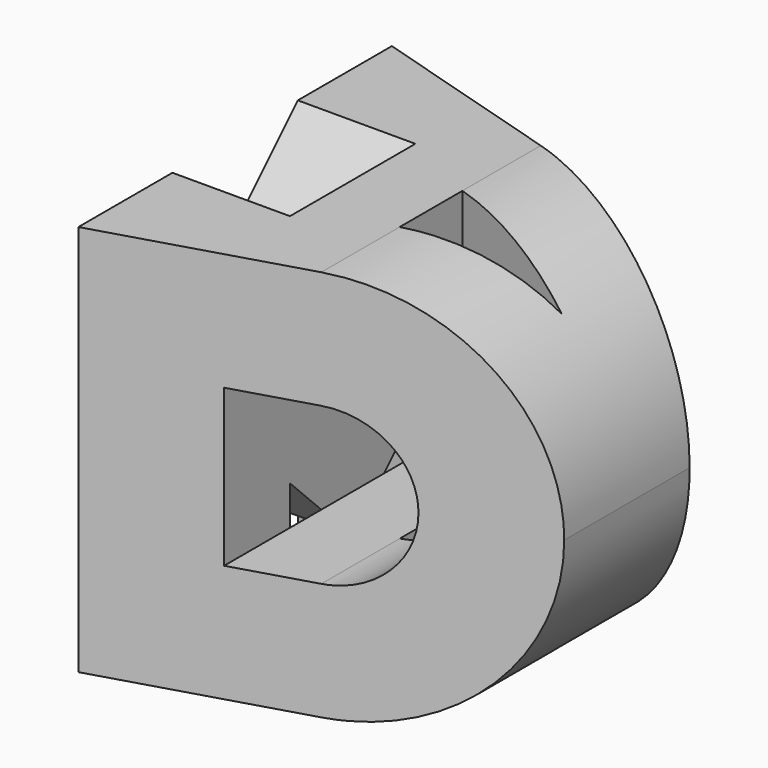
from build123d import *

# Parameters (mm, degrees)
F1_DEPTH = 50
F3_DEPTH = 15
F6_DEPTH = 50


with BuildPart() as f1:
    # F0 (on Front) → F1 (new body)
    with BuildSketch(Plane.XZ):
        with BuildLine():
            Line((25, 50), (0, 50))
            Line((0, 50), (0, 0))
            Line((0, 0), (25, 0))
            ThreePointArc((25, 0), (42.6776695297, 7.3223304703), (50, 25))
            ThreePointArc((50, 25), (42.6776695297, 42.6776695297), (25, 50))
        make_face()
        with BuildLine():
            Line((25, 15), (15, 15))
            Line((15, 15), (15, 35))
            Line((15, 35), (25, 35))
            ThreePointArc((25, 35), (32.0710678119, 32.0710678119), (35, 25))
            ThreePointArc((35, 25), (32.0710678119, 17.9289321881), (25, 15))
        make_face(mode=Mode.SUBTRACT)
    extrude(amount=F1_DEPTH)

    # F2 (on face) → F3 (cut)
    with BuildSketch(Plane(origin=(0, 0, 0), x_dir=(0, -1, 0), z_dir=(-1, 0, 0))):
        Polygon((15, 20), (15, 0), (35, 0), (35, 20), (25, 10), align=None)
        Polygon((35, 50), (15, 50), (25, 40), align=None)
    extrude(amount=-F3_DEPTH, mode=Mode.SUBTRACT)

    # F5 (on offset) → F6 (cut)
    with BuildSketch(Plane.XY.offset(50)):
        Polygon((41.6666666667, -25), (25, -20), (25, -30), align=None)
        Polygon((50, -50), (50, -35), (0, -50), align=None)
        Polygon((0, 0), (50, -15), (50, 0), align=None)
    extrude(amount=-F6_DEPTH, mode=Mode.SUBTRACT)


solid = f1.part
